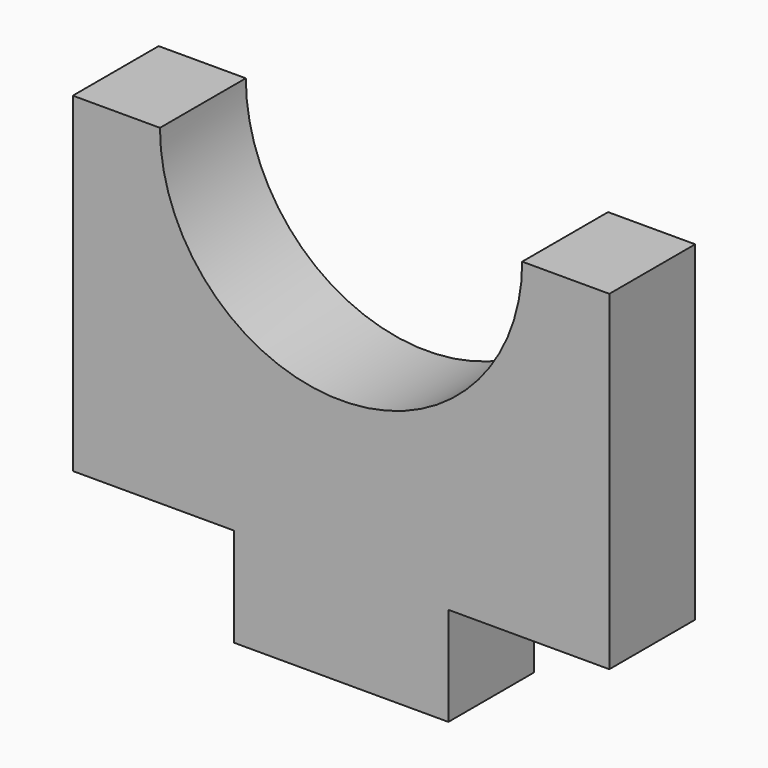
from build123d import *

# Parameters (mm, degrees)
F0_W     = 31.75
F0_H     = 25.4
F1_DEPTH = 6.35
F3_DEPTH = 6.35
F4_W     = 9.525
F4_H     = 6.854803
F5_DEPTH = 6.351


with BuildPart() as f1:
    # F0 (on Front) → F1 (new body)
    with BuildSketch(Plane.XZ):
        with Locations((15.875, 12.7)):
            Rectangle(F0_W, F0_H)
    extrude(amount=F1_DEPTH)

    # F2 (on face) → F3 (cut)
    with BuildSketch(Plane(origin=(0, 0, 0), x_dir=(-1, 0, 0), z_dir=(0, 1, 0))):
        with BuildLine():
            Line((-26.5938, 28.933519), (-26.5938, 25.4))
            ThreePointArc((-26.5938, 25.4), (-15.875, 14.6812), (-5.1562, 25.4))
            Line((-5.1562, 25.4), (-5.135716, 28.933519))
            Line((-5.135716, 28.933519), (-26.5938, 28.933519))
        make_face()
    extrude(amount=-F3_DEPTH, mode=Mode.SUBTRACT)

    # F4 (on face) → F5 (cut, through all)
    with BuildSketch(Plane.XZ.offset(6.35)):
        with Locations((4.7625, 2.414598)):
            Rectangle(F4_W, F4_H)
        with Locations((26.9875, 2.414598)):
            Rectangle(F4_W, F4_H)
    extrude(amount=-F5_DEPTH, mode=Mode.SUBTRACT)


solid = f1.part
